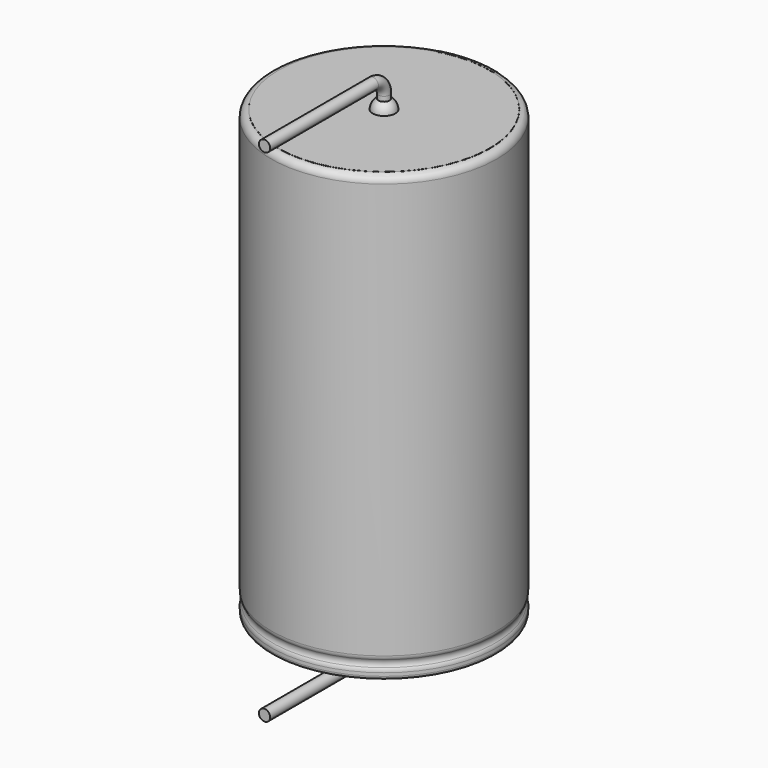
from build123d import *

# Parameters (mm, degrees)
SKETCH011_R             = 0.4
BODY007_PLACEMENT_ANGLE = 180
REVOLUTION001_ANGLE     = -30
POCKET_DEPTH            = 8.011
LINEARPATTERN_COUNT     = 7
LINEARPATTERN_PITCH     = 4.416667
SKETCH012_R             = 7.5
PAD_DEPTH               = 0.01
BODY008_PLACEMENT_ANGLE = 90


with BuildPart() as lead:
    # AdditivePipe: sweep along a path in Sketch010
    with BuildLine(Plane(origin=(0, 0, 0), x_dir=(0, -1, 0), z_dir=(-1, 0, 0))) as additivepipe_path:
        Line((0, 31.5), (0, 32.53))
        ThreePointArc((0, 32.53), (0.292893, 33.237107), (1, 33.53))
        Line((1, 33.53), (10.6, 33.53))
    # Sketch011 → AdditivePipe (sweep)
    with BuildSketch(Plane.XY.offset(31.5)):
        Circle(SKETCH011_R)
    sweep(path=additivepipe_path.line)


with BuildPart() as obj1:
    # Body007 base: copy of Lead
    add(lead.part)


with BuildPart() as obj1_1:
    # Body007 placement: moved
    add(obj1.part.moved(Location((0, 0, 31.5))).rotate(Axis((0, 0, 31.5), (0, 1, 0)), BODY007_PLACEMENT_ANGLE))


with BuildPart() as polaritymarking:
    # Sketch005 → Revolution001 (revolve)
    with BuildSketch(Plane(origin=(0, 0, 0), x_dir=(-0.258819, 0.965926, 0), z_dir=(0.965926, 0.258819, 0))):
        with BuildLine():
            Line((7.51, 0.043526), (7.51, 31.51))
            ThreePointArc((7.51, 31.51), (7.863553, 31.363553), (8.01, 31.01))
            Line((8.01, 31.01), (8.01, 1.523941))
            ThreePointArc((8.01, 1.523941), (7.989134, 1.381006), (7.928278, 1.25))
            ThreePointArc((7.928278, 1.25), (7.853698, 1), (7.928278, 0.75))
            ThreePointArc((7.928278, 0.75), (7.989134, 0.618994), (8.01, 0.476059))
            Line((8.01, 0.476059), (8.01, 0.043526))
            ThreePointArc((8.01, 0.043526), (7.76, -0.206474), (7.51, 0.043526))
        make_face()
    revolve(axis=Axis((0, 0, 0), (0, 0, 1)), revolution_arc=REVOLUTION001_ANGLE)

    # Sketch013 → Pocket (cut, through all)
    with BuildSketch(Plane.XZ):
        Polygon((0.375, 2), (-0.375, 2), (-0.375, 3), (0, 3.5), (0.375, 3), align=None)
    pocket = extrude(amount=-POCKET_DEPTH, mode=Mode.SUBTRACT)

    # LinearPattern: Pocket ×7
    with Locations(*[(0, 0, i * LINEARPATTERN_PITCH) for i in range(1, LINEARPATTERN_COUNT)]):
        add(pocket, mode=Mode.SUBTRACT)


with BuildPart() as housing:
    # Sketch → Revolution (revolve)
    with BuildSketch(Plane.XZ):
        with BuildLine():
            Line((0, 31.5), (7.5, 31.5))
            ThreePointArc((8, 31), (7.853553, 31.353553), (7.5, 31.5))
            Line((8, 31), (8, 1.523941))
            ThreePointArc((7.918278, 1.25), (7.979134, 1.381006), (8, 1.523941))
            ThreePointArc((7.918278, 1.25), (7.843698, 1), (7.918278, 0.75))
            ThreePointArc((8, 0.476059), (7.979134, 0.618994), (7.918278, 0.75))
            Line((8, 0.476059), (8, 0.25))
            ThreePointArc((7.75, 0), (7.926777, 0.073223), (8, 0.25))
            Line((0, 0), (7.75, 0))
            Line((0, 31.5), (0, 0))
        make_face()
    revolve(axis=Axis((0, 0, 0), (0, 0, 1)))


with BuildPart() as fusion:
    # Sphere → Sphere (revolve)
    with BuildSketch(Plane.XZ):
        with BuildLine():
            ThreePointArc((0, -0.8), (0.8, 0), (0, 0.8))
            Line((0, 0.8), (0, -0.8))
        make_face()
    revolve(axis=Axis((0, 0, 0), (0, 0, 1)))

    # Sketch012 (on ShapeBinder) → Pad (new body)
    with BuildSketch(Plane(origin=(0, 0, 0), x_dir=(0, -1, 0), z_dir=(0, 0, 1))):
        Circle(SKETCH012_R)
    extrude(amount=PAD_DEPTH)


with BuildPart() as fusion_1:
    # Body008 placement: moved
    add(fusion.part.moved(Location((0, 0, 31.5))).rotate(Axis((0, 0, 31.5), (0, 0, -1)), BODY008_PLACEMENT_ANGLE))

    # Fusion: union obj1, Lead, PolarityMarking, Housing
    add(obj1_1.part)
    add(lead.part)
    add(polaritymarking.part)
    add(housing.part)


solid = fusion_1.part
